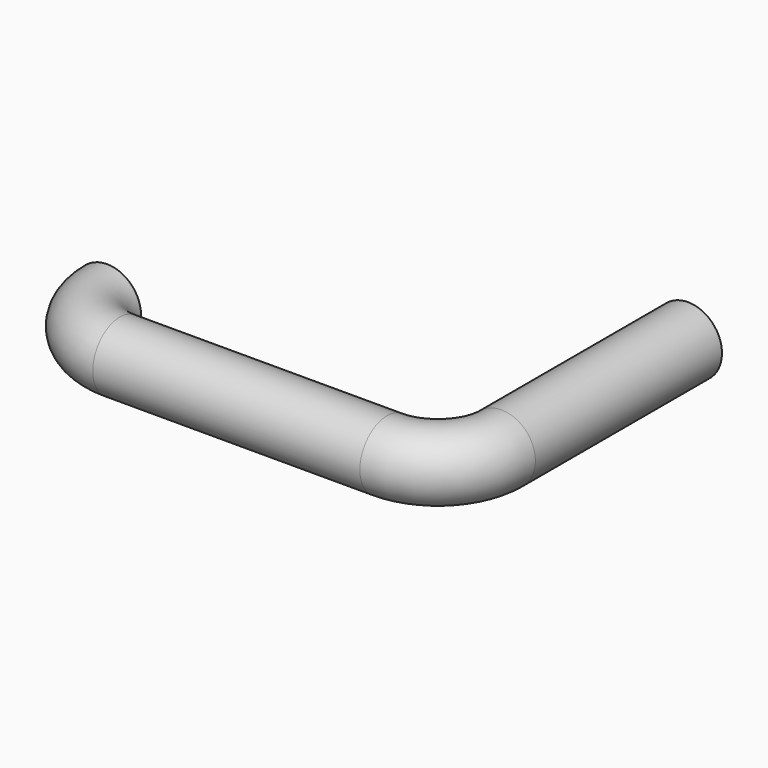
from build123d import *

# Parameters (mm, degrees)
F0_R = 8


with BuildPart() as f2:
    # F2: sweep along a path in F1
    with BuildLine(Plane.XY) as f2_path:
        ThreePointArc((0, 0), (4.393398, -10.606602), (15, -15))
        Line((15, -15), (78, -15))
        ThreePointArc((78, -15), (88.606602, -10.606602), (93, 0))
        Line((93, 0), (93, 55))
    # F0 (on Front) → F2 (sweep)
    with BuildSketch(Plane.XZ):
        Circle(F0_R)
    sweep(path=f2_path.line)


solid = f2.part
